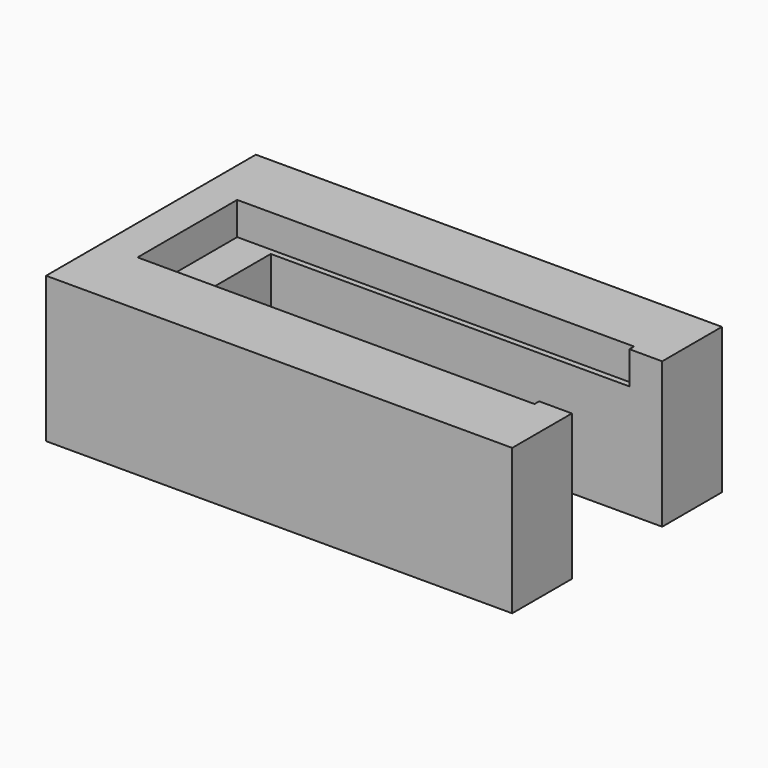
from build123d import *

# Parameters (mm, degrees)
F1_DEPTH = 20
F3_DEPTH = 4.5


with BuildPart() as f1:
    # F0 (on Top) → F1 (new body)
    with BuildSketch(Plane.XY):
        Polygon((-10.25, 0), (53.75, 0), (53.75, 10.25), (0, 10.25), (0, 25.75), (53.75, 25.75), (53.75, 36), (-10.25, 36), align=None)
    extrude(amount=F1_DEPTH)

    # F2 (on face) → F3 (cut)
    with BuildSketch(Plane.XY.offset(20)):
        Polygon((49.25, 26.55), (-5.25, 26.55), (-5.25, 9.45), (49.25, 9.45), (49.25, 10.25), (0, 10.25), (0, 25.75), (49.25, 25.75), align=None)
    extrude(amount=-F3_DEPTH, mode=Mode.SUBTRACT)


solid = f1.part
